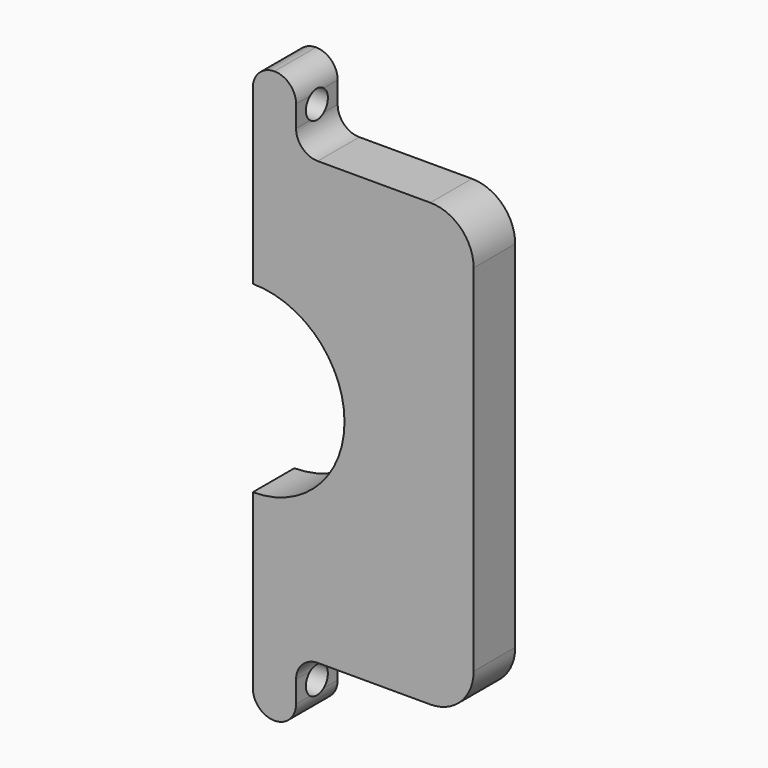
from build123d import *

# Parameters (mm, degrees)
F1_DEPTH = 3
F2_R     = 1.5875
F3_DEPTH = 12.751


with BuildPart() as f1:
    # F0 (on Front) → F1 (new body, symmetric)
    with BuildSketch(Plane.XZ):
        with BuildLine():
            Line((12.75, -20.5), (12.75, 0))
            Line((12.75, 0), (12.75, 20.5))
            ThreePointArc((12.75, 20.5), (11.285534, 24.035534), (7.75, 25.5))
            Line((7.75, 25.5), (-5.25, 25.5))
            ThreePointArc((-5.25, 25.5), (-7.017767, 26.232233), (-7.75, 28))
            Line((-7.75, 28), (-7.75, 29.25))
            Line((-7.75, 29.25), (-7.75, 30.5))
            ThreePointArc((-7.75, 30.5), (-8.482233, 32.267767), (-10.25, 33))
            ThreePointArc((-10.25, 33), (-12.017767, 32.267767), (-12.75, 30.5))
            Line((-12.75, 30.5), (-12.75, 29.25))
            Line((-12.75, 29.25), (-12.75, 25.5))
            Line((-12.75, 25.5), (-12.75, 10.59))
            ThreePointArc((-12.75, 10.59), (-2.16, 0), (-12.75, -10.59))
            Line((-12.75, -10.59), (-12.75, -25.5))
            Line((-12.75, -25.5), (-7.75, -25.5))
            Line((-7.75, -25.5), (-7.75, -28))
            ThreePointArc((-7.75, -28), (-7.017767, -26.232233), (-5.25, -25.5))
            Line((-5.25, -25.5), (7.75, -25.5))
            ThreePointArc((7.75, -25.5), (11.285534, -24.035534), (12.75, -20.5))
        make_face()
        with BuildLine():
            Line((12.75, -20.5), (12.75, 0))
            Line((12.75, 0), (12.75, 20.5))
            ThreePointArc((12.75, 20.5), (11.285534, 24.035534), (7.75, 25.5))
            Line((7.75, 25.5), (-5.25, 25.5))
            ThreePointArc((-5.25, 25.5), (-7.017767, 26.232233), (-7.75, 28))
            Line((-7.75, 28), (-7.75, 29.25))
            Line((-7.75, 29.25), (-7.75, 30.5))
            ThreePointArc((-7.75, 30.5), (-8.482233, 32.267767), (-10.25, 33))
            ThreePointArc((-10.25, 33), (-12.017767, 32.267767), (-12.75, 30.5))
            Line((-12.75, 30.5), (-12.75, 29.25))
            Line((-12.75, 29.25), (-12.75, 25.5))
            Line((-12.75, 25.5), (-12.75, 10.59))
            ThreePointArc((-12.75, 10.59), (-2.16, 0), (-12.75, -10.59))
            Line((-12.75, -10.59), (-12.75, -25.5))
            Line((-12.75, -25.5), (-7.75, -25.5))
            Line((-7.75, -25.5), (-7.75, -28))
            ThreePointArc((-7.75, -28), (-7.017767, -26.232233), (-5.25, -25.5))
            Line((-5.25, -25.5), (7.75, -25.5))
            ThreePointArc((7.75, -25.5), (11.285534, -24.035534), (12.75, -20.5))
        make_face()
        with BuildLine():
            Line((-7.75, -29.25), (-7.75, -28))
            Line((-7.75, -28), (-7.75, -25.5))
            Line((-7.75, -25.5), (-12.75, -25.5))
            Line((-12.75, -25.5), (-12.75, -29.25))
            Line((-12.75, -29.25), (-12.75, -30.5))
            ThreePointArc((-12.75, -30.5), (-12.017767, -32.267767), (-10.25, -33))
            ThreePointArc((-10.25, -33), (-8.482233, -32.267767), (-7.75, -30.5))
            Line((-7.75, -30.5), (-7.75, -29.25))
        make_face()
    extrude(amount=F1_DEPTH, both=True)

    # F2 (on Right) → F3 (cut, through all)
    with BuildSketch(Plane.YZ):
        with Locations((0, 29.25)):
            Circle(F2_R)
        with Locations((0, -29.25)):
            Circle(F2_R)
    extrude(amount=-F3_DEPTH, mode=Mode.SUBTRACT)


solid = f1.part
